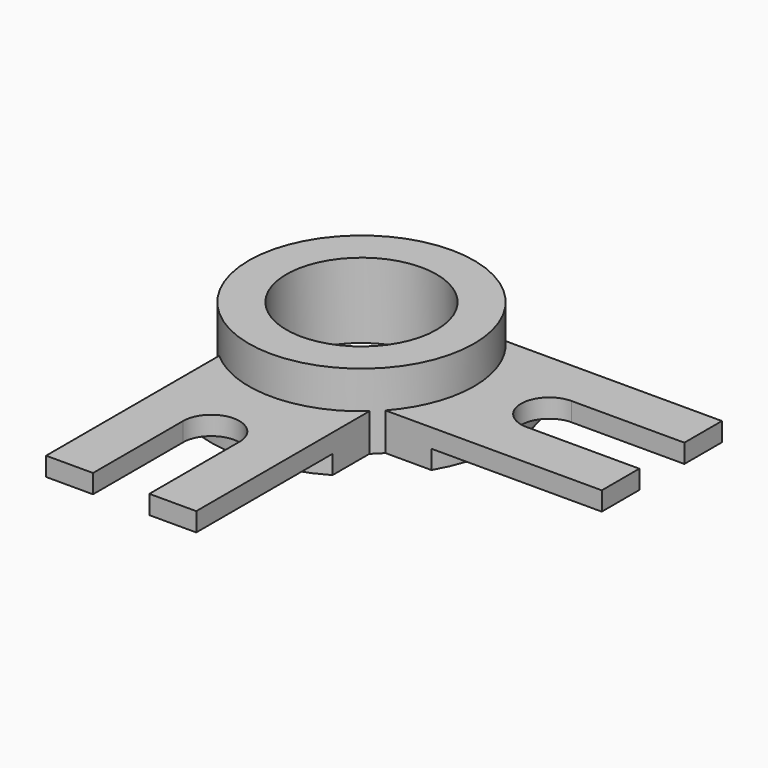
from build123d import *

# Parameters (mm, degrees)
F0_R      = 30
F1_DEPTH  = 20
F2_W      = 80
F2_H      = 40
F3_DEPTH  = 10
F5_DEPTH  = 10.001
F6_R      = 90
F6_R_2    = 40
F7_DEPTH  = 5
F8_COUNT  = 2
F8_ANGLE  = 90
F9_R      = 20
F10_DEPTH = 20.001


with BuildPart() as f1:
    # F0 (on Top) → F1 (new body)
    with BuildSketch(Plane.XY):
        Circle(F0_R)
    extrude(amount=F1_DEPTH)

    # F2 (on Top) → F3 (join)
    with BuildSketch(Plane.XY):
        with Locations((40, 0)):
            Rectangle(F2_W, F2_H)
    extrude(amount=F3_DEPTH)

    # F4 (on face) → F5 (cut, through all)
    with BuildSketch(Plane.XY.offset(10)):
        with BuildLine():
            Line((80, 7.5), (50, 7.5))
            ThreePointArc((50, 7.5), (42.5, 0), (50, -7.5))
            Line((50, -7.5), (80, -7.5))
            Line((80, -7.5), (80, 7.5))
        make_face()
    extrude(amount=-F5_DEPTH, mode=Mode.SUBTRACT)

    # F6 (on Top) → F7 (cut)
    with BuildSketch(Plane.XY):
        Circle(F6_R)
        Circle(F6_R_2, mode=Mode.SUBTRACT)
    extrude(amount=F7_DEPTH, mode=Mode.SUBTRACT)

    # F8: F1 ×2 about axis
    f8_axis = Axis((0, 0, 20), (0, 0, -1))


with BuildPart() as f1_1:
    add(f1.part)
    for i in range(1, F8_COUNT):
        add(f1.part.rotate(f8_axis, i * F8_ANGLE / (F8_COUNT - 1)))

    # F9 (on face) → F10 (cut, through all)
    with BuildSketch(Plane.XY.offset(20)):
        Circle(F9_R)
    extrude(amount=-F10_DEPTH, mode=Mode.SUBTRACT)


solid = f1_1.part
